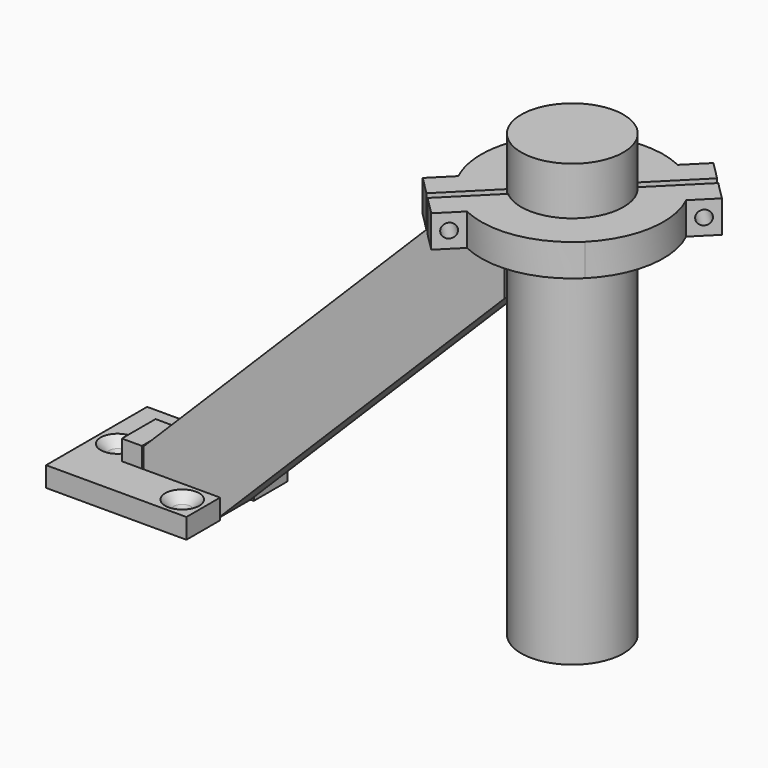
from build123d import *

# Parameters (mm, degrees)
F0_R      = 1.75
F1_DEPTH  = 5
F0_W      = 5
F0_H      = 10.5
F2_DEPTH  = 10
F3_SIZE   = 2.5
F4_SIZE   = 0.5
F0_R_2    = 12.75
F5_DEPTH  = 110
F7_DEPTH  = 5.25
F9_DEPTH  = 8
F11_DEPTH = 5
F12_R     = 1.75
F13_DEPTH = 3
F14_DEPTH = 43.4791866087


with BuildPart() as f1:
    # F0 (on Top) → F1 (new body)
    with BuildSketch(Plane.XY):
        Polygon((-83.6437979341, 5.25), (-83.6437979341, 15.75), (-118.6437979341, 15.75), (-118.6437979341, -15.75), (-83.6437979341, -15.75), (-83.6437979341, -5.25), (-103.1437979341, -5.25), (-108.1437979341, -5.25), (-108.1437979341, 5.25), (-103.1437979341, 5.25), align=None)
        with Locations((-88.8937979341, -10.5)):
            Circle(F0_R, mode=Mode.SUBTRACT)
        with Locations((-113.3937979341, 0)):
            Circle(F0_R, mode=Mode.SUBTRACT)
        with Locations((-88.8937979341, 10.5)):
            Circle(F0_R, mode=Mode.SUBTRACT)
    extrude(amount=F1_DEPTH)

    # F0 (on Top) → F2 (join)
    with BuildSketch(Plane.XY):
        with Locations((-105.6437979341, 0)):
            Rectangle(F0_W, F0_H)
    extrude(amount=F2_DEPTH)

    # F3
    f3_edges = [f1.edges().sort_by_distance(p)[0] for p in [
        (-115.143798, 0, 5),
        (-90.643798, 10.5, 5),
        (-90.643798, -10.5, 5),
    ]]
    chamfer(f3_edges, length=F3_SIZE)

    # F4
    f4_edges = [f1.edges().sort_by_distance(p)[0] for p in [
        (-115.143798, 0, 2.5),
        (-90.643798, 10.5, 2.5),
        (-90.643798, -10.5, 2.5),
    ]]
    chamfer(f4_edges, length=F4_SIZE)


with BuildPart() as f5:
    # F0 (on Top) → F5 (new body)
    with BuildSketch(Plane.XY):
        Circle(F0_R_2)
    extrude(amount=F5_DEPTH)


with BuildPart() as f7:
    # F6 (on Front) → F7 (new body, symmetric)
    with BuildSketch(Plane.XZ):
        Polygon((-84.4657287525, 0), (-12.75, 71.7157287525), (-12.75, 90), (-22.75, 90), (-102.75, 10), (-102.75, 0), align=None)
    extrude(amount=F7_DEPTH, both=True)


with BuildPart() as f9:
    # F8 (on face) → F9 (new body)
    with BuildSketch(Plane.XY.offset(90)):
        with BuildLine():
            ThreePointArc((-12.75, 0), (-5.337750656, 11.5788996858), (8.2807322249, 9.6949457873))
            Line((8.2807322249, 9.6949457873), (19.4300120858, 20.8442256481))
            Line((19.4300120858, 20.8442256481), (14.833818008, 25.4404197258))
            Line((14.833818008, 25.4404197258), (9.8840705397, 20.4906722575))
            ThreePointArc((9.8840705397, 20.4906722575), (-3.8035348461, 22.4297931929), (-16.086679272, 16.086679272))
            ThreePointArc((-16.086679272, 16.086679272), (-19.8645571212, 11.0888173572), (-22.1359436212, 5.25))
            Line((-22.1359436212, 5.25), (-12.75, 5.25))
            Line((-12.75, 5.25), (-12.75, 0))
        make_face()
        with BuildLine():
            Line((-12.75, -5.25), (-12.75, 0))
            Line((-12.75, 0), (-12.75, 5.25))
            Line((-12.75, 5.25), (-22.1359436212, 5.25))
            ThreePointArc((-22.1359436212, 5.25), (-22.5959644337, 2.6428944945), (-22.75, 0))
            ThreePointArc((-22.75, 0), (-22.5959644337, -2.6428944945), (-22.1359436212, -5.25))
            Line((-22.1359436212, -5.25), (-12.75, -5.25))
        make_face()
        with BuildLine():
            Line((-20.8442256481, -19.4300120858), (-9.6949457873, -8.2807322249))
            ThreePointArc((-9.6949457873, -8.2807322249), (-11.9618781717, -4.4131588013), (-12.75, 0))
            Line((-12.75, 0), (-12.75, -5.25))
            Line((-12.75, -5.25), (-22.1359436212, -5.25))
            ThreePointArc((-22.1359436212, -5.25), (-21.4388840139, -7.6116195544), (-20.4906722575, -9.8840705397))
            Line((-20.4906722575, -9.8840705397), (-25.4404197258, -14.833818008))
            Line((-25.4404197258, -14.833818008), (-20.8442256481, -19.4300120858))
        make_face()
    extrude(amount=F9_DEPTH)

    # F10 (on face) → F11 (join)
    with BuildSketch(Plane(origin=(0, 0, 90), x_dir=(1, 0, 0), z_dir=(0, 0, -1))):
        with BuildLine():
            Line((-12.75, 5.25), (-11.6189500386, 5.25))
            ThreePointArc((-11.6189500386, 5.25), (-10.764147587, 6.8334198412), (-9.6949457873, 8.2807322249))
            Line((-9.6949457873, 8.2807322249), (-13.4153718083, 12.001158246))
            ThreePointArc((-13.4153718083, 12.001158246), (-15.6839282526, 8.8325757606), (-17.2173604249, 5.25))
            Line((-17.2173604249, 5.25), (-12.75, 5.25))
        make_face()
        with BuildLine():
            Line((-11.6189500386, -5.25), (-12.75, -5.25))
            Line((-12.75, -5.25), (-17.2173604249, -5.25))
            ThreePointArc((-17.2173604249, -5.25), (-15.4324273977, -9.2649978206), (-12.7279220614, -12.7279220614))
            ThreePointArc((-12.7279220614, -12.7279220614), (-9.2649978206, -15.4324273977), (-5.25, -17.2173604249))
            Line((-5.25, -17.2173604249), (-5.25, -12.75))
            Line((-5.25, -12.75), (-5.25, -11.6189500386))
            ThreePointArc((-5.25, -11.6189500386), (-9.0156114601, -9.0156114601), (-11.6189500386, -5.25))
        make_face()
        with BuildLine():
            ThreePointArc((8.2807322249, -9.6949457873), (6.8334198412, -10.764147587), (5.25, -11.6189500386))
            Line((5.25, -11.6189500386), (5.25, -12.75))
            Line((5.25, -12.75), (5.25, -17.2173604249))
            ThreePointArc((5.25, -17.2173604249), (8.8325757606, -15.6839282526), (12.001158246, -13.4153718083))
            Line((12.001158246, -13.4153718083), (8.2807322249, -9.6949457873))
        make_face()
    extrude(amount=F11_DEPTH)

    # F12 (on face) → F13 (cut)
    with BuildSketch(Plane(origin=(-5.3033008589, 5.3033008589, 0), x_dir=(-0.7071067812, -0.7071067812, 0), z_dir=(-0.7071067812, 0.7071067812, 0))):
        Polygon((-27.9781866087, 95.7320508076), (-27.9781866087, 92.2679491924), (-24.9781866087, 90.5358983849), (-21.9781866087, 92.2679491924), (-21.9781866087, 95.7320508076), (-24.9781866087, 97.4641016151), align=None)
        with Locations((-24.9781866087, 94)):
            Circle(F12_R, mode=Mode.SUBTRACT)
        Polygon((21.9781866087, 95.7320508076), (21.9781866087, 92.2679491924), (24.9781866087, 90.5358983849), (27.9781866087, 92.2679491924), (27.9781866087, 95.7320508076), (24.9781866087, 97.4641016151), align=None)
        with Locations((24.9781866087, 94)):
            Circle(F12_R, mode=Mode.SUBTRACT)
    extrude(amount=-F13_DEPTH, mode=Mode.SUBTRACT)


with BuildPart() as f9b:
    # F8 (on face) → F9, piece 2 (new body)
    with BuildSketch(Plane.XY.offset(90)):
        with BuildLine():
            ThreePointArc((9.6949457873, 8.2807322249), (11.9618781717, 4.4131588013), (12.75, 0))
            ThreePointArc((12.75, 0), (5.337750656, -11.5788996858), (-8.2807322249, -9.6949457873))
            Line((-8.2807322249, -9.6949457873), (-19.4300120858, -20.8442256481))
            Line((-19.4300120858, -20.8442256481), (-14.833818008, -25.4404197258))
            Line((-14.833818008, -25.4404197258), (-9.8840705397, -20.4906722575))
            ThreePointArc((-9.8840705397, -20.4906722575), (3.8035348461, -22.4297931929), (16.086679272, -16.086679272))
            ThreePointArc((16.086679272, -16.086679272), (22.4297931929, -3.8035348461), (20.4906722575, 9.8840705397))
            Line((20.4906722575, 9.8840705397), (25.4404197258, 14.833818008))
            Line((25.4404197258, 14.833818008), (20.8442256481, 19.4300120858))
            Line((20.8442256481, 19.4300120858), (9.6949457873, 8.2807322249))
        make_face()
    extrude(amount=F9_DEPTH)


with BuildPart() as f14_tool:
    # F12 (on face) → F14 (new body, through all)
    with BuildSketch(Plane(origin=(-5.3033008589, 5.3033008589, 0), x_dir=(-0.7071067812, -0.7071067812, 0), z_dir=(-0.7071067812, 0.7071067812, 0))):
        with Locations((-24.9781866087, 94)):
            Circle(F12_R)
        with Locations((24.9781866087, 94)):
            Circle(F12_R)
    extrude(amount=-F14_DEPTH)


with BuildPart() as f9_1:
    add(f9.part)

    # F14: cut by f14_tool
    add(f14_tool.part, mode=Mode.SUBTRACT)


with BuildPart() as f9b_1:
    add(f9b.part)

    # F14: cut by f14_tool
    add(f14_tool.part, mode=Mode.SUBTRACT)


solid = Compound([f1.part, f5.part, f7.part, f9_1.part, f9b_1.part])
